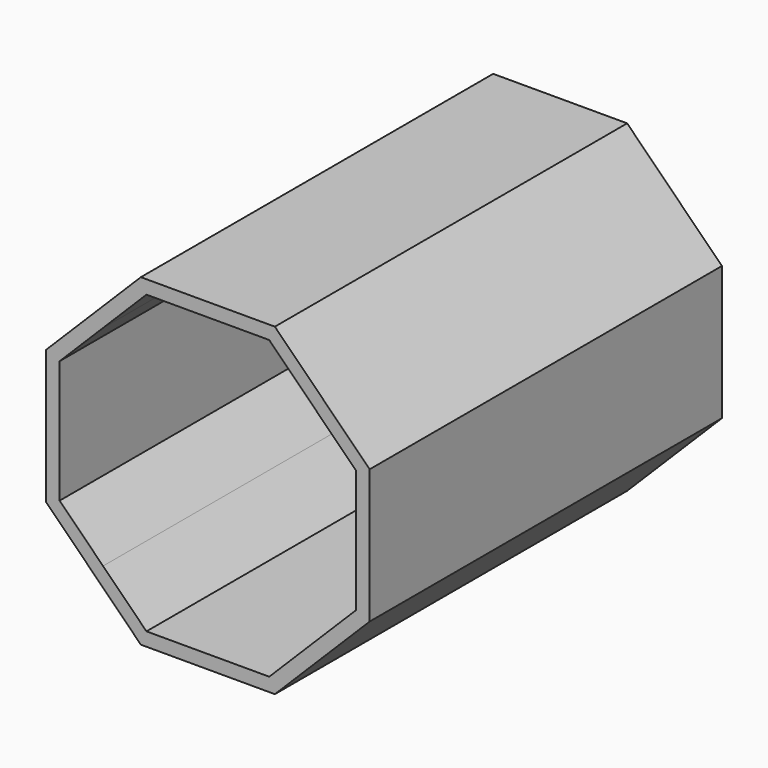
from build123d import *

# Parameters (mm, degrees)
F1_DEPTH = 19.05


with BuildPart() as f1:
    # F0 (on Front) → F1 (new body, symmetric)
    with BuildSketch(Plane.XZ):
        Polygon((-9.897127, 9.897127), (-9.067459, 9.067459), (-5.311595, 12.823324), (5.311595, 12.823324), (9.067459, 9.067459), (9.897127, 9.897127), (5.797603, 13.996651), (-5.797603, 13.996651), align=None)
        Polygon((-12.823324, 5.311595), (-9.067459, 9.067459), (-9.897127, 9.897127), (-13.996651, 5.797603), (-13.996651, -5.797603), (-9.897127, -9.897127), (-9.067459, -9.067459), (-12.823324, -5.311595), align=None)
        Polygon((9.897127, 9.897127), (9.067459, 9.067459), (12.823324, 5.311595), (12.823324, -5.311595), (9.067459, -9.067459), (9.897127, -9.897127), (13.996651, -5.797603), (13.996651, 5.797603), align=None)
        Polygon((-5.311595, -12.823324), (-9.067459, -9.067459), (-9.897127, -9.897127), (-5.797603, -13.996651), (5.797603, -13.996651), (9.897127, -9.897127), (9.067459, -9.067459), (5.311595, -12.823324), align=None)
    extrude(amount=F1_DEPTH, both=True)


solid = f1.part
